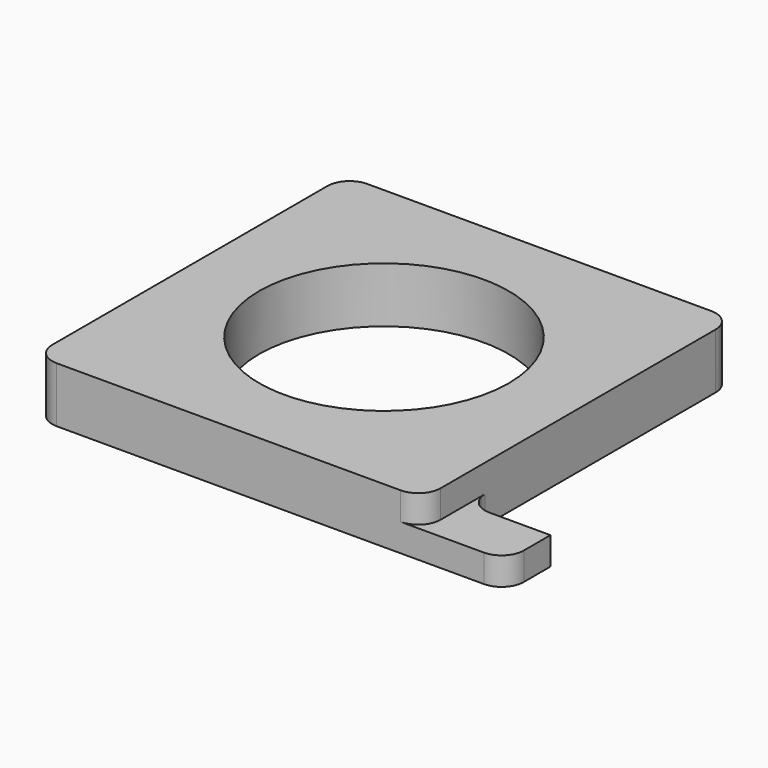
from build123d import *

# Parameters (mm, degrees)
F1_DEPTH = 12.7
F0_W     = 19.05
F0_H     = 12.7
F2_DEPTH = 6.35
F3_R     = 5.08
F4_R     = 5.08
F5_R     = 28.575
F6_DEPTH = 25.4


with BuildPart() as f1:
    # F0 (on Top) → F1 (new body)
    with BuildSketch(Plane.XY):
        Polygon((44.45, 44.45), (-44.45, 44.45), (-44.45, -44.45), (44.45, -44.45), (44.45, -31.75), align=None)
    extrude(amount=F1_DEPTH)

    # F0 (on Top) → F2 (join)
    with BuildSketch(Plane.XY):
        with Locations((53.975, -38.1)):
            Rectangle(F0_W, F0_H)
    extrude(amount=F2_DEPTH)

    # F3
    f3_edges = [f1.edges().sort_by_distance(p)[0] for p in [
        (-44.45, -44.45, 6.35),
        (-44.45, 44.45, 6.35),
        (44.45, 44.45, 6.35),
        (44.45, -31.75, 3.175),
    ]]
    fillet(f3_edges, radius=F3_R)

    # F4
    f4_edges = [f1.edges().sort_by_distance(p)[0] for p in [
        (44.45, -44.45, 9.525),
        (63.5, -44.45, 3.175),
    ]]
    fillet(f4_edges, radius=F4_R)

    # F5 (on face) → F6 (cut)
    with BuildSketch(Plane.XY.offset(12.7)):
        Circle(F5_R)
    extrude(amount=-F6_DEPTH, mode=Mode.SUBTRACT)


solid = f1.part
